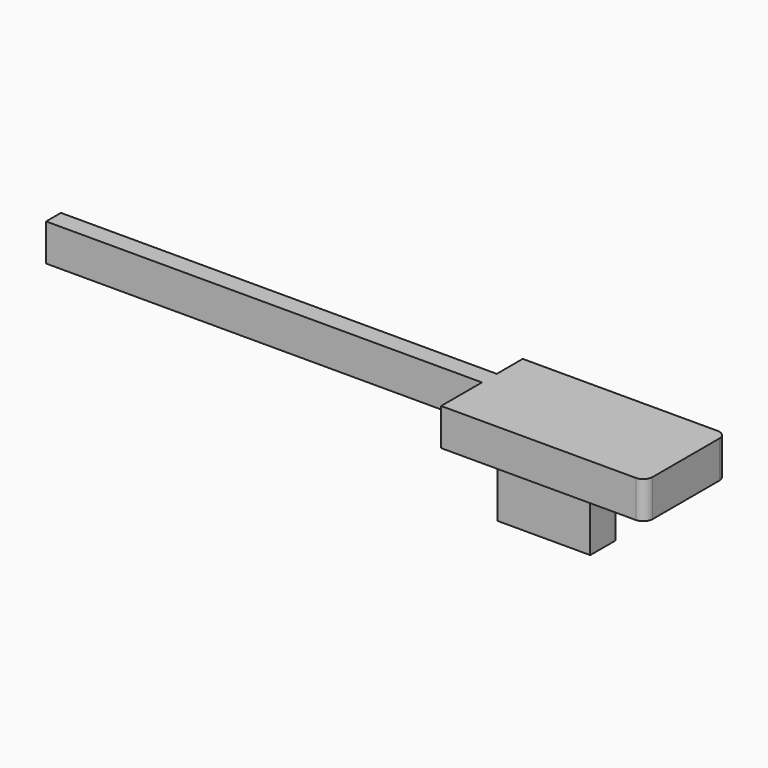
from build123d import *

# Parameters (mm, degrees)
F0_W     = 47
F0_H     = 2
F0_W_2   = 10
F0_H_2   = 3.4
F1_DEPTH = 4
F2_DEPTH = 10
F3_R     = 1


with BuildPart() as f1:
    # F0 (on Top) → F1 (new body)
    with BuildSketch(Plane.XY):
        with Locations((-12.59553, 9.557682)):
            Rectangle(F0_W, F0_H)
        with Locations((-12.59553, 9.557682)):
            Rectangle(F0_W, F0_H)
        Polygon((10.90447, 10.657682), (10.90447, 10.557682), (10.90447, 8.557682), (10.90447, 3.057682), (32.90447, 3.057682), (32.90447, 14.057682), (20.90447, 14.057682), (20.90447, 10.657682), align=None)
        with Locations((15.90447, 12.357682)):
            Rectangle(F0_W_2, F0_H_2)
        Polygon((10.90447, 10.657682), (10.90447, 10.557682), (10.90447, 8.557682), (10.90447, 3.057682), (32.90447, 3.057682), (32.90447, 14.057682), (20.90447, 14.057682), (20.90447, 10.657682), align=None)
    extrude(amount=F1_DEPTH)

    # F0 (on Top) → F2 (join)
    with BuildSketch(Plane.XY):
        with Locations((15.90447, 12.357682)):
            Rectangle(F0_W_2, F0_H_2)
    extrude(amount=-F2_DEPTH)

    # F3
    f3_edges = [f1.edges().sort_by_distance(p)[0] for p in [
        (32.90447, 3.057682, 2),
        (32.90447, 14.057682, 2),
    ]]
    fillet(f3_edges, radius=F3_R)


solid = f1.part
